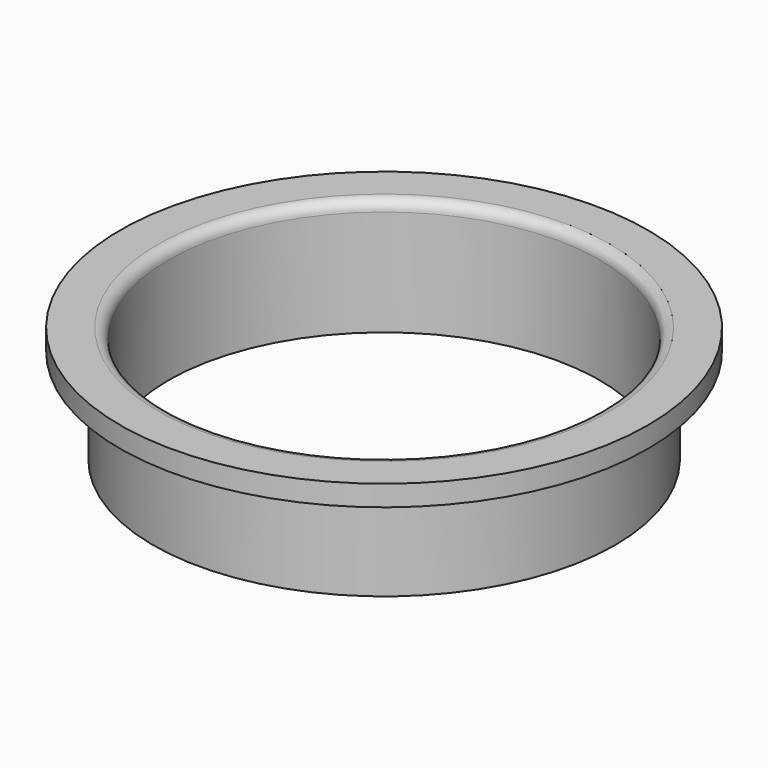
from build123d import *

# Parameters (mm, degrees)
F0_R     = 22.225
F1_DEPTH = 11.2
F2_R     = 25.4
F2_R_2   = 22.225
F3_DEPTH = 2
F4_R     = 20.75
F5_DEPTH = 25
F6_R     = 1


with BuildPart() as f1:
    # F0 (on Top) → F1 (new body)
    with BuildSketch(Plane.XY):
        Circle(F0_R)
    extrude(amount=F1_DEPTH)

    # F2 (on face) → F3 (join)
    with BuildSketch(Plane.XY.offset(11.2)):
        Circle(F2_R)
        Circle(F2_R_2, mode=Mode.SUBTRACT)
    extrude(amount=-F3_DEPTH)

    # F4 (on face) → F5 (cut)
    with BuildSketch(Plane(origin=(0, 0, 0), x_dir=(1, 0, 0), z_dir=(0, 0, -1))):
        Circle(F4_R)
    extrude(amount=-F5_DEPTH, mode=Mode.SUBTRACT)

    # F6
    f6_edges = [f1.edges().sort_by_distance(p)[0] for p in [
        (-20.75, 0, 11.2),
    ]]
    fillet(f6_edges, radius=F6_R)


solid = f1.part
